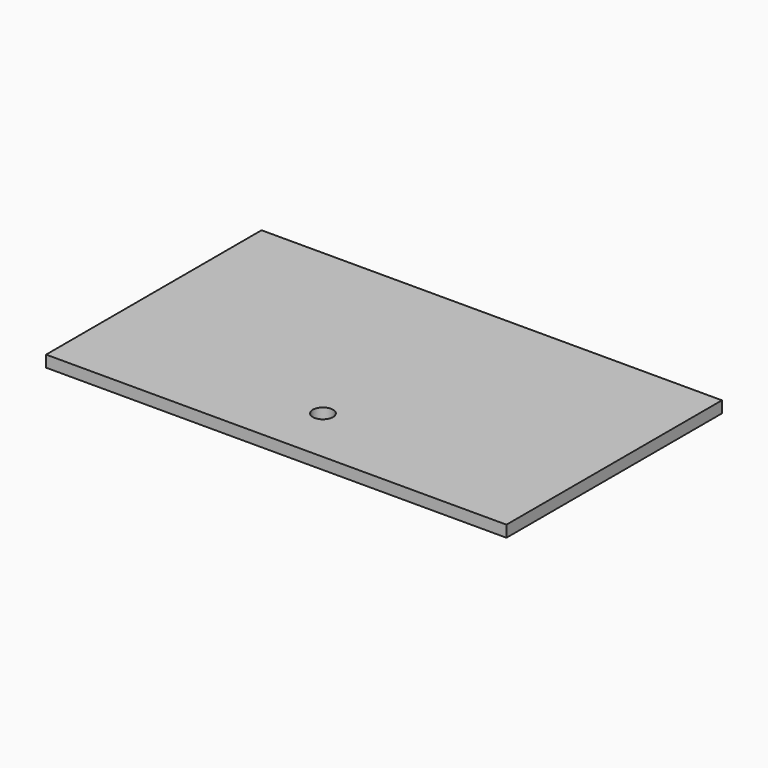
from build123d import *

# Parameters (mm, degrees)
F0_R     = 2.62178
F1_DEPTH = 3


with BuildPart() as f1:
    # F0 (on Top) → F1 (new body)
    with BuildSketch(Plane.XY):
        Polygon((-60.03581, -14.926272), (0, -14.926272), (59.649073, -14.926272), (59.649073, 55.08418), (-60.03581, 55.08418), align=None)
        Circle(F0_R, mode=Mode.SUBTRACT)
    extrude(amount=F1_DEPTH)


solid = f1.part
